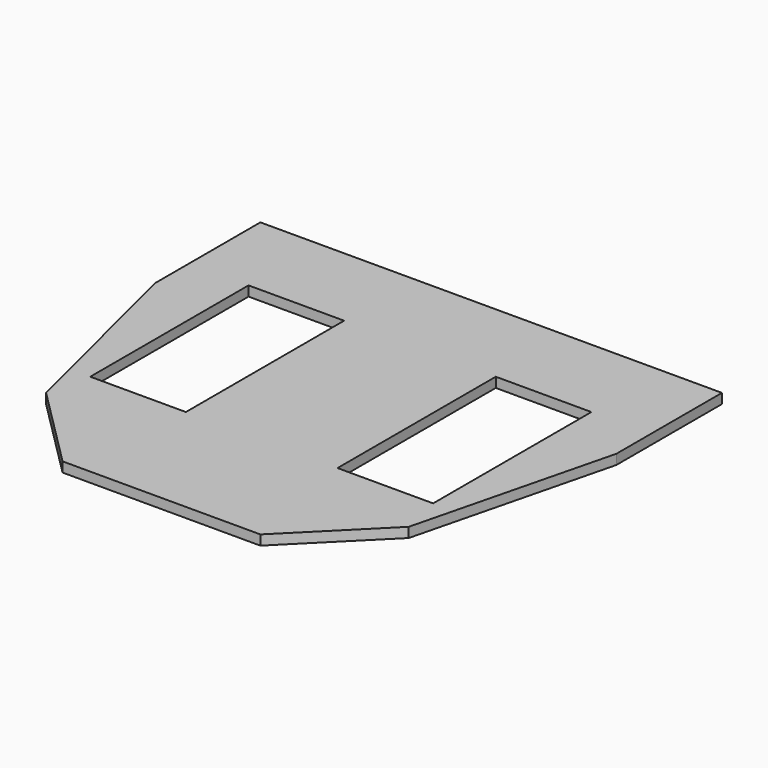
from build123d import *

# Parameters (mm, degrees)
F0_W     = 36.83
F0_H     = 76.2
F1_DEPTH = 3.81


with BuildPart() as f1:
    # F0 (on Top) → F1 (new body)
    with BuildSketch(Plane.XY):
        Polygon((88.9, 50.8), (0, 50.8), (-88.9, 50.8), (-88.9, 0), (-69.85, -76.2), (-38.1, -107.95), (0, -107.95), (38.1, -107.95), (69.85, -76.2), (88.9, 0), align=None)
        with Locations((-47.625, -21.59)):
            Rectangle(F0_W, F0_H, mode=Mode.SUBTRACT)
    extrude(amount=F1_DEPTH)

    # F2: F1 across plane


with BuildPart() as f1_1:
    add(f1.part)
    add(f1.part.mirror(Plane.YZ), mode=Mode.INTERSECT)


solid = f1_1.part
